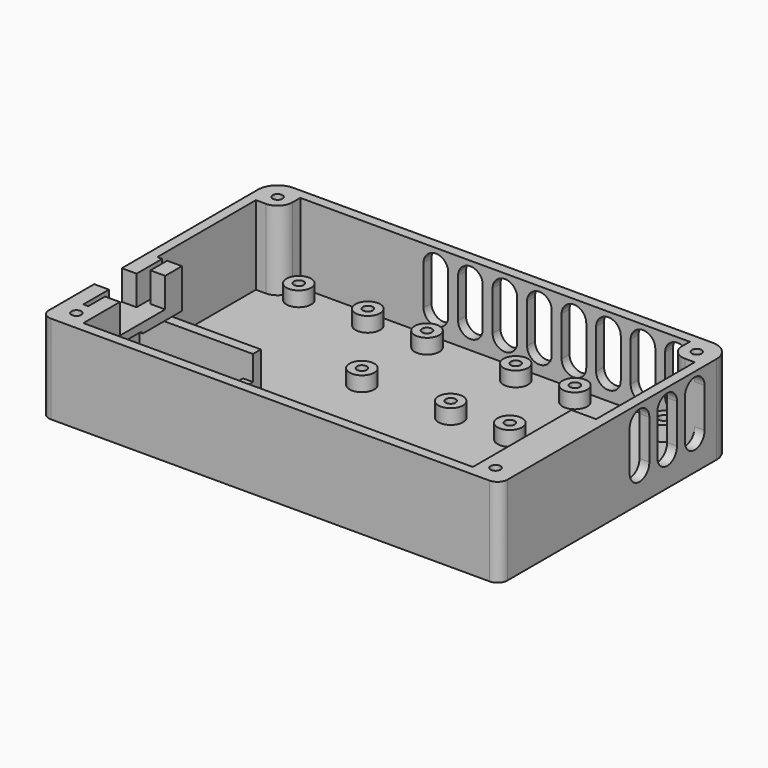
from build123d import *

# Parameters (mm, degrees)
SKETCH_W        = 93
SKETCH_H        = 59
PAD_DEPTH       = 18
POCKET_DEPTH    = 16
POCKET001_DEPTH = 6
SKETCH003_W     = 25
SKETCH003_H     = 8
POCKET002_DEPTH = 5
SKETCH004_R     = 2.5
SKETCH004_W     = 2
SKETCH004_H     = 20.5
PAD001_DEPTH    = 3
SKETCH005_W     = 23
SKETCH005_H     = 2
PAD002_DEPTH    = 8
SKETCH006_W     = 2
SKETCH006_H     = 2
PAD003_DEPTH    = 2
SKETCH007_R     = 1
POCKET003_DEPTH = 4
POCKET004_DEPTH = 2
POCKET005_DEPTH = 2
SKETCH010_R     = 1
POCKET006_DEPTH = 8
SKETCH011_W     = 10
SKETCH011_H     = 4
POCKET007_DEPTH = 7
FILLET_R        = 2
FILLET001_R     = 4
FILLET002_R     = 3
FILLET003_R     = 1


with BuildPart() as part:
    # Sketch → Pad (new body)
    with BuildSketch(Plane.XY):
        with Locations((46.5, 29.5)):
            Rectangle(SKETCH_W, SKETCH_H)
    extrude(amount=PAD_DEPTH)

    # Sketch001 (on Face6 of Pad) → Pocket (cut)
    with BuildSketch(Plane.XY.offset(18)):
        Polygon((7, 57), (86, 57), (86, 52), (91, 52), (91, 27), (86, 27), (86, 2), (7, 2), (7, 27), (2, 27), (2, 52), (7, 52), align=None)
    extrude(amount=-POCKET_DEPTH, mode=Mode.SUBTRACT)

    # Sketch002 (on Face5 of Pocket) → Pocket001 (cut)
    with BuildSketch(Plane.XY.offset(18)):
        Polygon((0, 20.5), (3, 20.5), (3, 27), (4, 27), (4, 22.75), (7, 22.75), (7, 11.25), (4, 11.25), (4, 7), (3, 7), (3, 13.5), (0, 13.5), align=None)
    extrude(amount=-POCKET001_DEPTH, mode=Mode.SUBTRACT)

    # Sketch003 (on Face14 of Pocket001) → Pocket002 (cut)
    with BuildSketch(Plane.YZ.offset(7)):
        with Locations((14.5, 6)):
            Rectangle(SKETCH003_W, SKETCH003_H)
    extrude(amount=-POCKET002_DEPTH, mode=Mode.SUBTRACT)

    # Sketch004 (on Face31 of Pocket002) → Pad001 (join)
    with BuildSketch(Plane.XY.offset(2)):
        with Locations((23.5, 53.5)):
            Circle(SKETCH004_R)
        with Locations((35.5, 53.5)):
            Circle(SKETCH004_R)
        with Locations((53.5, 53.5)):
            Circle(SKETCH004_R)
        with Locations((53.5, 37)):
            Circle(SKETCH004_R)
        with Locations((35.5, 37)):
            Circle(SKETCH004_R)
        with Locations((65.5, 53.5)):
            Circle(SKETCH004_R)
        with Locations((83.5, 53.5)):
            Circle(SKETCH004_R)
        with Locations((83.5, 37)):
            Circle(SKETCH004_R)
        with Locations((65.5, 37)):
            Circle(SKETCH004_R)
        with Locations((9.5, 53.5)):
            Circle(SKETCH004_R)
        with Locations((24, 12.25)):
            Rectangle(SKETCH004_W, SKETCH004_H)
    extrude(amount=PAD001_DEPTH)

    # Sketch005 (on Face33 of Pad001) → Pad002 (join)
    with BuildSketch(Plane.XY.offset(2)):
        with Locations((13.5, 23.5)):
            Rectangle(SKETCH005_W, SKETCH005_H)
    extrude(amount=PAD002_DEPTH)

    # Sketch006 (on Face30 of Pad002) → Pad003 (join)
    with BuildSketch(Plane.XY.offset(5)):
        with Locations((24, 3)):
            Rectangle(SKETCH006_W, SKETCH006_H)
    extrude(amount=PAD003_DEPTH)

    # Sketch007 (on Face37 of Pad003) → Pocket003 (cut)
    with BuildSketch(Plane.XY.offset(5)):
        with Locations((23.5, 53.5)):
            Circle(SKETCH007_R)
        with Locations((35.5, 53.5)):
            Circle(SKETCH007_R)
        with Locations((9.5, 53.5)):
            Circle(SKETCH007_R)
        with Locations((53.5, 53.5)):
            Circle(SKETCH007_R)
        with Locations((65.5, 53.5)):
            Circle(SKETCH007_R)
        with Locations((83.5, 53.5)):
            Circle(SKETCH007_R)
        with Locations((35.5, 37)):
            Circle(SKETCH007_R)
        with Locations((53.5, 37)):
            Circle(SKETCH007_R)
        with Locations((65.5, 37)):
            Circle(SKETCH007_R)
        with Locations((83.5, 37)):
            Circle(SKETCH007_R)
    extrude(amount=-POCKET003_DEPTH, mode=Mode.SUBTRACT)

    # Sketch008 (on Face49 of Pocket003) → Pocket004 (cut)
    with BuildSketch(Plane(origin=(0, 59, 0), x_dir=(-1, 0, 0), z_dir=(0, 1, 0))):
        with BuildLine():
            ThreePointArc((-79, 6.5), (-76.5, 4), (-74, 6.5))
            Line((-74, 6.5), (-74, 14.5))
            ThreePointArc((-74, 14.5), (-76.5, 17), (-79, 14.5))
            Line((-79, 6.5), (-79, 14.5))
        make_face()
        with BuildLine():
            ThreePointArc((-72, 6.5), (-69.5, 4), (-67, 6.5))
            Line((-67, 6.5), (-67, 14.5))
            ThreePointArc((-67, 14.5), (-69.5, 17), (-72, 14.5))
            Line((-72, 6.5), (-72, 14.5))
        make_face()
        with BuildLine():
            ThreePointArc((-65, 6.5), (-62.5, 4), (-60, 6.5))
            Line((-60, 6.5), (-60, 14.5))
            ThreePointArc((-60, 14.5), (-62.5, 17), (-65, 14.5))
            Line((-65, 6.5), (-65, 14.5))
        make_face()
        with BuildLine():
            ThreePointArc((-58, 6.5), (-55.5, 4), (-53, 6.5))
            Line((-53, 6.5), (-53, 14.5))
            ThreePointArc((-53, 14.5), (-55.5, 17), (-58, 14.5))
            Line((-58, 6.5), (-58, 14.5))
        make_face()
        with BuildLine():
            ThreePointArc((-51, 6.5), (-48.5, 4), (-46, 6.5))
            Line((-46, 6.5), (-46, 14.5))
            ThreePointArc((-46, 14.5), (-48.5, 17), (-51, 14.5))
            Line((-51, 6.5), (-51, 14.5))
        make_face()
        with BuildLine():
            ThreePointArc((-44, 6.5), (-41.5, 4), (-39, 6.5))
            Line((-39, 6.5), (-39, 14.5))
            ThreePointArc((-39, 14.5), (-41.5, 17), (-44, 14.5))
            Line((-44, 6.5), (-44, 14.5))
        make_face()
        with BuildLine():
            ThreePointArc((-37, 6.5), (-34.5, 4), (-32, 6.5))
            Line((-32, 6.5), (-32, 14.5))
            ThreePointArc((-32, 14.5), (-34.5, 17), (-37, 14.5))
            Line((-37, 6.5), (-37, 14.5))
        make_face()
        with BuildLine():
            ThreePointArc((-86, 6.5), (-83.5, 4), (-81, 6.5))
            Line((-81, 6.5), (-81, 14.5))
            ThreePointArc((-81, 14.5), (-83.5, 17), (-86, 14.5))
            Line((-86, 6.5), (-86, 14.5))
        make_face()
    extrude(amount=-POCKET004_DEPTH, mode=Mode.SUBTRACT)

    # Sketch009 (on Face80 of Pocket004) → Pocket005 (cut)
    with BuildSketch(Plane.YZ.offset(93)):
        with BuildLine():
            ThreePointArc((40, 6.5), (42.5, 4), (45, 6.5))
            Line((45, 6.5), (45, 14.5))
            ThreePointArc((45, 14.5), (42.5, 17), (40, 14.5))
            Line((40, 6.5), (40, 14.5))
        make_face()
        with BuildLine():
            ThreePointArc((33, 6.5), (35.5, 4), (38, 6.5))
            Line((38, 6.5), (38, 14.5))
            ThreePointArc((38, 14.5), (35.5, 17), (33, 14.5))
            Line((33, 6.5), (33, 14.5))
        make_face()
        with BuildLine():
            ThreePointArc((47, 6.5), (49.5, 4), (52, 6.5))
            Line((52, 6.5), (52, 14.5))
            ThreePointArc((52, 14.5), (49.5, 17), (47, 14.5))
            Line((47, 6.5), (47, 14.5))
        make_face()
    extrude(amount=-POCKET005_DEPTH, mode=Mode.SUBTRACT)

    # Sketch010 (on Face26 of Pocket005) → Pocket006 (cut)
    with BuildSketch(Plane.XY.offset(18)):
        with Locations((4, 55)):
            Circle(SKETCH010_R)
        with Locations((4, 4)):
            Circle(SKETCH010_R)
        with Locations((89, 4)):
            Circle(SKETCH010_R)
        with Locations((89, 55)):
            Circle(SKETCH010_R)
    extrude(amount=-POCKET006_DEPTH, mode=Mode.SUBTRACT)

    # Sketch011 (on Face93 of Pocket006) → Pocket007 (cut)
    with BuildSketch(Plane(origin=(0, 0, 0), x_dir=(0, -1, 0), z_dir=(-1, 0, 0))):
        with Locations((-12.25, 8.5)):
            Rectangle(SKETCH011_W, SKETCH011_H)
    extrude(amount=-POCKET007_DEPTH, mode=Mode.SUBTRACT)

    # Fillet
    fillet_edges = [part.edges().sort_by_distance(p)[0] for p in [
        (0, 0, 9),
        (93, 0, 9),
    ]]
    fillet(fillet_edges, radius=FILLET_R)

    # Fillet001
    fillet001_edges = [part.edges().sort_by_distance(p)[0] for p in [
        (93, 59, 9),
        (0, 59, 9),
    ]]
    fillet(fillet001_edges, radius=FILLET001_R)

    # Fillet002
    fillet002_edges = [part.edges().sort_by_distance(p)[0] for p in [
        (7, 52, 10),
        (86, 52, 10),
    ]]
    fillet(fillet002_edges, radius=FILLET002_R)

    # Fillet003
    fillet003_edges = [part.edges().sort_by_distance(p)[0] for p in [
        (1, 7.25, 6.5),
        (1, 17.25, 6.5),
        (3.5, 17.25, 10.5),
        (3.5, 7.25, 10.5),
    ]]
    fillet(fillet003_edges, radius=FILLET003_R)


solid = part.part
